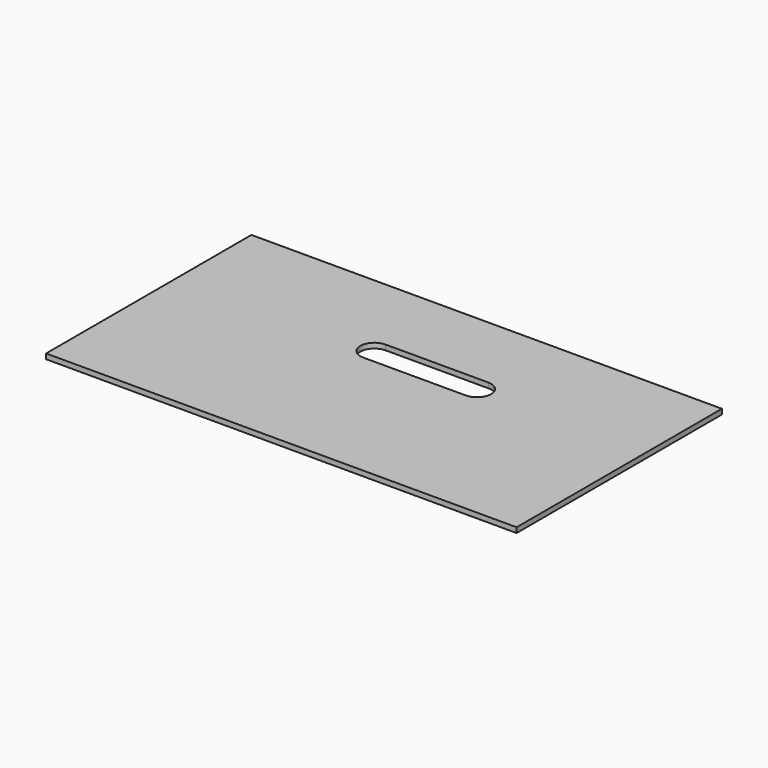
from build123d import *

# Parameters (mm, degrees)
F0_W     = 550
F0_H     = 300
F1_DEPTH = 6


with BuildPart() as f1:
    # F0 (on Top) → F1 (new body)
    with BuildSketch(Plane.XY):
        with Locations((275, -150)):
            Rectangle(F0_W, F0_H)
        with BuildLine():
            ThreePointArc((231.054693, -125.493598), (214.643131, -109.082036), (231.054693, -92.670473))
            Line((231.054693, -92.670473), (351.054693, -92.670473))
            ThreePointArc((351.054693, -92.670473), (367.466256, -109.082036), (351.054693, -125.493598))
            Line((351.054693, -125.493598), (231.054693, -125.493598))
        make_face(mode=Mode.SUBTRACT)
    extrude(amount=F1_DEPTH)


solid = f1.part
